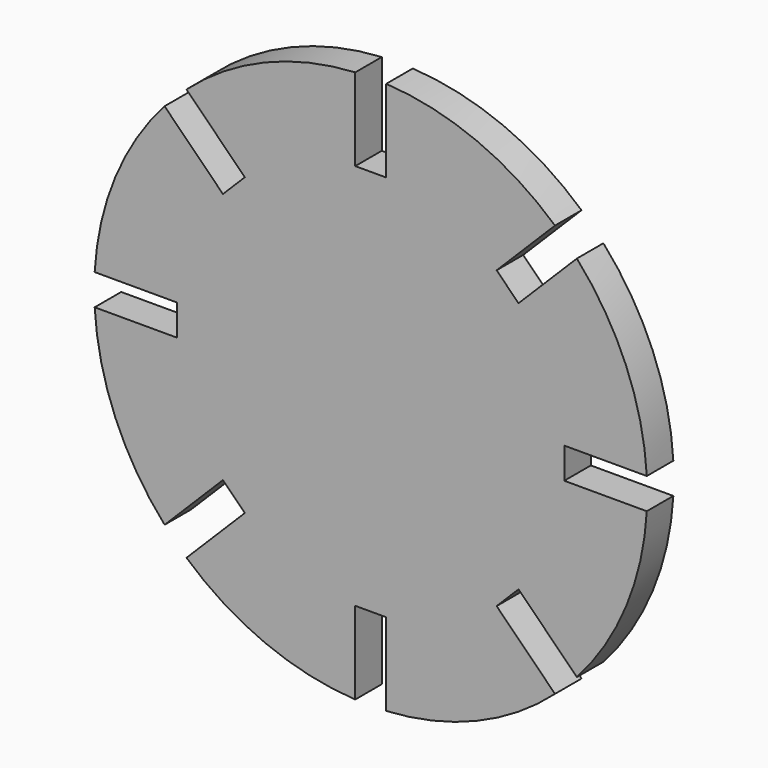
from build123d import *

# Parameters (mm, degrees)
F1_DEPTH = 3


with BuildPart() as f1:
    # F0 (on Front) → F1 (new body)
    with BuildSketch(Plane.XZ):
        with BuildLine():
            Line((11.384419, 13.364318), (16.65998, 18.639879))
            ThreePointArc((16.65998, 18.639879), (9.567086, 23.096988), (1.4, 24.960769))
            Line((1.4, 24.960769), (1.4, 17.5))
            Line((1.4, 17.5), (-1.4, 17.5))
            Line((-1.4, 17.5), (-1.4, 24.960769))
            ThreePointArc((-1.4, 24.960769), (-9.567086, 23.096988), (-16.65998, 18.639879))
            Line((-16.65998, 18.639879), (-11.384419, 13.364318))
            Line((-11.384419, 13.364318), (-13.364318, 11.384419))
            Line((-13.364318, 11.384419), (-18.639879, 16.65998))
            ThreePointArc((-18.639879, 16.65998), (-23.096988, 9.567086), (-24.960769, 1.4))
            Line((-24.960769, 1.4), (-17.5, 1.4))
            Line((-17.5, 1.4), (-17.5, -1.4))
            Line((-17.5, -1.4), (-24.960769, -1.4))
            ThreePointArc((-24.960769, -1.4), (-23.096988, -9.567086), (-18.639879, -16.65998))
            Line((-18.639879, -16.65998), (-13.364318, -11.384419))
            Line((-13.364318, -11.384419), (-11.384419, -13.364318))
            Line((-11.384419, -13.364318), (-16.65998, -18.639879))
            ThreePointArc((-16.65998, -18.639879), (-9.567086, -23.096988), (-1.4, -24.960769))
            Line((-1.4, -24.960769), (-1.4, -17.5))
            Line((-1.4, -17.5), (1.4, -17.5))
            Line((1.4, -17.5), (1.4, -24.960769))
            ThreePointArc((1.4, -24.960769), (9.567086, -23.096988), (16.65998, -18.639879))
            Line((16.65998, -18.639879), (11.384419, -13.364318))
            Line((11.384419, -13.364318), (13.364318, -11.384419))
            Line((13.364318, -11.384419), (18.639879, -16.65998))
            ThreePointArc((18.639879, -16.65998), (23.096988, -9.567086), (24.960769, -1.4))
            Line((24.960769, -1.4), (17.5, -1.4))
            Line((17.5, -1.4), (17.5, 1.4))
            Line((17.5, 1.4), (24.960769, 1.4))
            ThreePointArc((24.960769, 1.4), (23.096988, 9.567086), (18.639879, 16.65998))
            Line((18.639879, 16.65998), (13.364318, 11.384419))
            Line((13.364318, 11.384419), (11.384419, 13.364318))
        make_face()
    extrude(amount=F1_DEPTH)


solid = f1.part
